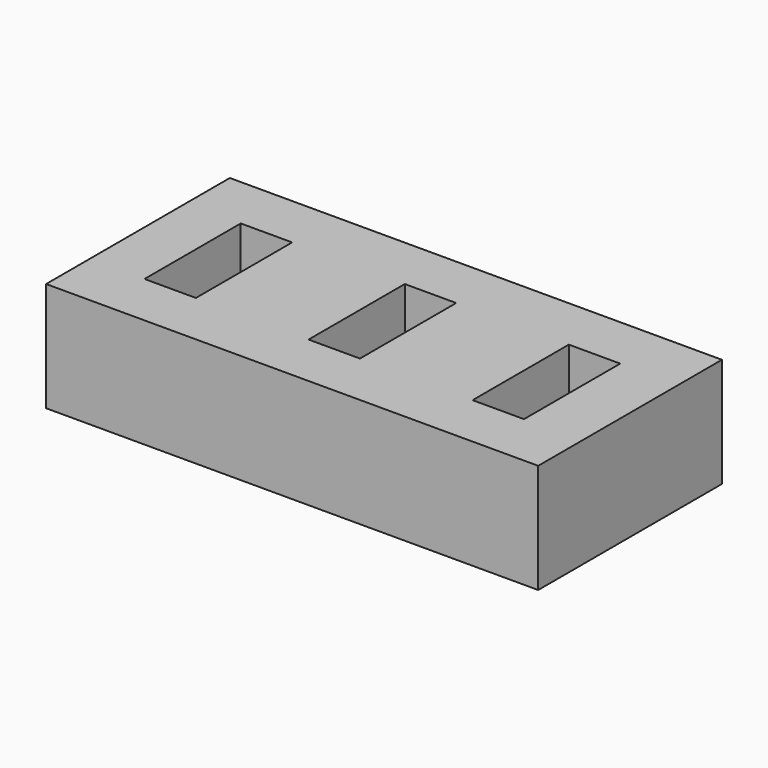
from build123d import *

# Parameters (mm, degrees)
BOX001_W     = 4.7
BOX001_H     = 11
BOX001_DEPTH = 12
BOX002_W     = 4.7
BOX002_H     = 11
BOX002_DEPTH = 12
BOX_W        = 4.7
BOX_H        = 11
BOX_DEPTH    = 12
BOX003_W     = 45
BOX003_H     = 21
BOX003_DEPTH = 10


with BuildPart() as box001:
    # Box001 → Box001 (new body)
    with BuildSketch(Plane(origin=(15, 0, 0), x_dir=(1, 0, 0), z_dir=(0, 0, 1))):
        with Locations((2.35, 5.5)):
            Rectangle(BOX001_W, BOX001_H)
    extrude(amount=BOX001_DEPTH)


with BuildPart() as box002:
    # Box002 → Box002 (new body)
    with BuildSketch(Plane(origin=(30, 0, 0), x_dir=(1, 0, 0), z_dir=(0, 0, 1))):
        with Locations((2.35, 5.5)):
            Rectangle(BOX002_W, BOX002_H)
    extrude(amount=BOX002_DEPTH)


with BuildPart() as ranuras:
    # Box → Box (new body)
    with BuildSketch(Plane.XY):
        with Locations((2.35, 5.5)):
            Rectangle(BOX_W, BOX_H)
    extrude(amount=BOX_DEPTH)

    # Fusion: union Box001, Box002
    add(box001.part)
    add(box002.part)


with BuildPart() as ranuras_1:
    # Fusion placement: moved
    add(ranuras.part.moved(Location((5, 5, 2))))


with BuildPart() as portapendrives:
    # Box003 → Box003 (new body)
    with BuildSketch(Plane.XY):
        with Locations((22.5, 10.5)):
            Rectangle(BOX003_W, BOX003_H)
    extrude(amount=BOX003_DEPTH)

    # Cut: cut Ranuras
    add(ranuras_1.part, mode=Mode.SUBTRACT)


solid = portapendrives.part
